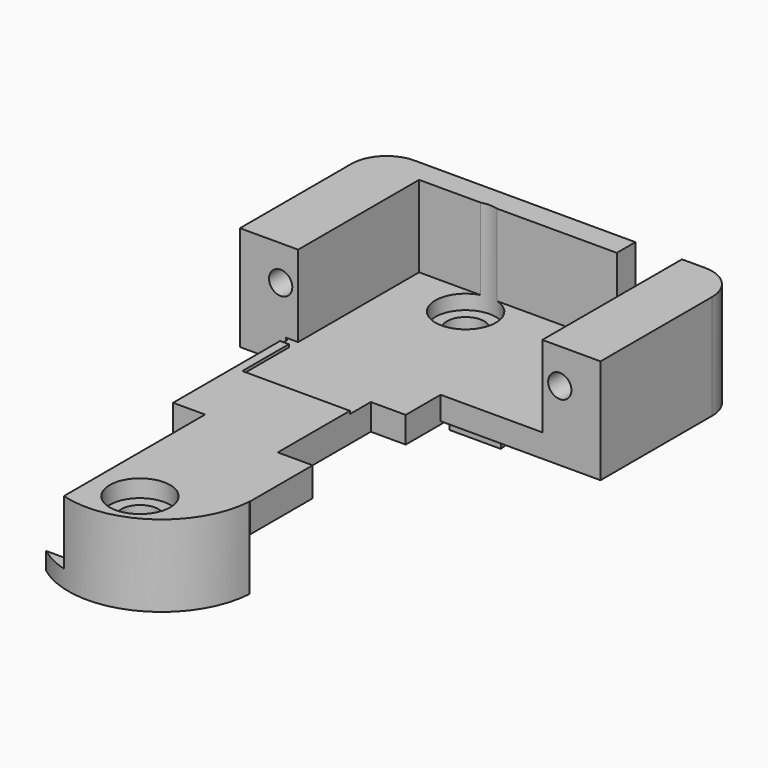
from build123d import *

# Parameters (mm, degrees)
CYLINDER298_R     = 1
CYLINDER298_DEPTH = 20
CYLINDER299_R     = 1
CYLINDER299_DEPTH = 20
BOX220_W          = 28
BOX220_H          = 1
BOX220_DEPTH      = 8
BOX197_W          = 21
BOX197_H          = 19
BOX197_DEPTH      = 8
BOX221_W          = 18
BOX221_H          = 27
BOX221_DEPTH      = 5.5
CYLINDER296_R     = 1.6
CYLINDER296_DEPTH = 10
CYLINDER297_R     = 1.6
CYLINDER297_DEPTH = 10
BOX224_W          = 69.8
BOX224_H          = 38.8
BOX224_DEPTH      = 4
CYLINDER300_R     = 2.6
CYLINDER300_DEPTH = 10
CYLINDER301_R     = 2.6
CYLINDER301_DEPTH = 10
BOX226_W          = 11
BOX226_H          = 17
BOX226_DEPTH      = 6
BOX227_W          = 4
BOX227_H          = 8
BOX227_DEPTH      = 11
BOX232_W          = 10
BOX232_H          = 10
BOX232_DEPTH      = 10
BOX222_W          = 10
BOX222_H          = 44
BOX222_DEPTH      = 3
CYLINDER295_R     = 8
CYLINDER295_DEPTH = 7
CYLINDER294_R     = 8
CYLINDER294_DEPTH = 7
BOX225_W          = 31
BOX225_H          = 15
BOX225_DEPTH      = 9
FILLET121_R       = 3
BOX223_W          = 13
BOX223_H          = 27
BOX223_DEPTH      = 2.5


with BuildPart() as zylinder300:
    # Cylinder298 → Cylinder298 (new body)
    with BuildSketch(Plane(origin=(22.5, 23, 30.5), x_dir=(1, 0, 0), z_dir=(0, -1, 0))):
        Circle(CYLINDER298_R)
    extrude(amount=CYLINDER298_DEPTH)


with BuildPart() as zylinder301:
    # Cylinder299 → Cylinder299 (new body)
    with BuildSketch(Plane(origin=(-1.5, 23, 30.5), x_dir=(1, 0, 0), z_dir=(0, -1, 0))):
        Circle(CYLINDER299_R)
    extrude(amount=CYLINDER299_DEPTH)


with BuildPart() as obj1:
    # Box220 → Box220 (new body)
    with BuildSketch(Plane(origin=(-3, 5, 26.5), x_dir=(1, 0, 0), z_dir=(0, 0, 1))):
        with Locations((14, 0.5)):
            Rectangle(BOX220_W, BOX220_H)
    extrude(amount=BOX220_DEPTH)


with BuildPart() as fusion207:
    # Box197 → Box197 (new body)
    with BuildSketch(Plane.XY.offset(26.5)):
        with Locations((10.5, 9.5)):
            Rectangle(BOX197_W, BOX197_H)
    extrude(amount=BOX197_DEPTH)

    # Fusion206: union obj1
    add(obj1.part)

    # Fusion207: union Zylinder300, Zylinder301
    add(zylinder300.part)
    add(zylinder301.part)


with BuildPart() as fusion207_1:
    # Fusion207 placement: moved
    add(fusion207.part.moved(Location((19.5, 1, -3.75))))


with BuildPart() as obj2:
    # Box221 → Box221 (new body)
    with BuildSketch(Plane(origin=(14.5, -13.5, 15), x_dir=(1, 0, 0), z_dir=(0, 0, 1))):
        with Locations((9, 13.5)):
            Rectangle(BOX221_W, BOX221_H)
    extrude(amount=BOX221_DEPTH)


with BuildPart() as zylinder298:
    # Cylinder296 → Cylinder296 (new body)
    with BuildSketch(Plane(origin=(25.5, -17.5, 12.25), x_dir=(1, 0, 0), z_dir=(0, 0, 1))):
        Circle(CYLINDER296_R)
    extrude(amount=CYLINDER296_DEPTH)


with BuildPart() as zylinder299:
    # Cylinder297 → Cylinder297 (new body)
    with BuildSketch(Plane(origin=(25.5, 17.5, 13), x_dir=(1, 0, 0), z_dir=(0, 0, 1))):
        Circle(CYLINDER297_R)
    extrude(amount=CYLINDER297_DEPTH)


with BuildPart() as board005:
    # Box224 → Box224 (new body)
    with BuildSketch(Plane(origin=(-42.5, -19.4, 16), x_dir=(1, 0, 0), z_dir=(0, 0, 1))):
        with Locations((34.9, 19.4)):
            Rectangle(BOX224_W, BOX224_H)
    extrude(amount=BOX224_DEPTH)


with BuildPart() as zylinder302:
    # Cylinder300 → Cylinder300 (new body)
    with BuildSketch(Plane(origin=(25.5, -17.5, 21.5), x_dir=(1, 0, 0), z_dir=(0, 0, 1))):
        Circle(CYLINDER300_R)
    extrude(amount=CYLINDER300_DEPTH)


with BuildPart() as zylinder303:
    # Cylinder301 → Cylinder301 (new body)
    with BuildSketch(Plane(origin=(25.5, 17.5, 21.5), x_dir=(1, 0, 0), z_dir=(0, 0, 1))):
        Circle(CYLINDER301_R)
    extrude(amount=CYLINDER301_DEPTH)


with BuildPart() as obj3:
    # Box226 → Box226 (new body)
    with BuildSketch(Plane(origin=(10.5, -22.5, 17.5), x_dir=(1, 0, 0), z_dir=(0, 0, 1))):
        with Locations((5.5, 8.5)):
            Rectangle(BOX226_W, BOX226_H)
    extrude(amount=BOX226_DEPTH)


with BuildPart() as obj4:
    # Box227 → Box227 (new body)
    with BuildSketch(Plane(origin=(36.5, 18.25, 23.5), x_dir=(1, 0, 0), z_dir=(0, 0, 1))):
        with Locations((2, 4)):
            Rectangle(BOX227_W, BOX227_H)
    extrude(amount=BOX227_DEPTH)


with BuildPart() as obj5:
    # Box232 → Box232 (new body)
    with BuildSketch(Plane(origin=(28.75, -6.75, 16.25), x_dir=(1, 0, 0), z_dir=(0, 0, 1))):
        with Locations((5, 5)):
            Rectangle(BOX232_W, BOX232_H)
    extrude(amount=BOX232_DEPTH)


with BuildPart() as fusion204:
    # Box222 → Box222 (new body)
    with BuildSketch(Plane(origin=(8.75, -22.5, 17.5), x_dir=(1, 0, 0), z_dir=(0, 0, 1))):
        with Locations((5, 22)):
            Rectangle(BOX222_W, BOX222_H)
    extrude(amount=BOX222_DEPTH)

    # Fusion204: union obj2, Zylinder298, Zylinder299, board005, Zylinder302, Zylinder303, obj3, obj4, obj5
    add(obj2.part)
    add(zylinder298.part)
    add(zylinder299.part)
    add(board005.part)
    add(zylinder302.part)
    add(zylinder303.part)
    add(obj3.part)
    add(obj4.part)
    add(obj5.part)


with BuildPart() as zylinder297:
    # Cylinder295 → Cylinder295 (new body)
    with BuildSketch(Plane(origin=(23.75, -13, 16), x_dir=(1, 0, 0), z_dir=(0, 0, 1))):
        Circle(CYLINDER295_R)
    extrude(amount=CYLINDER295_DEPTH)


with BuildPart() as zylinder296:
    # Cylinder294 → Cylinder294 (new body)
    with BuildSketch(Plane(origin=(23.75, 13, 16), x_dir=(1, 0, 0), z_dir=(0, 0, 1))):
        Circle(CYLINDER294_R)
    extrude(amount=CYLINDER294_DEPTH)


with BuildPart() as fillet121:
    # Box225 → Box225 (new body)
    with BuildSketch(Plane(origin=(14.5, 7, 20.75), x_dir=(1, 0, 0), z_dir=(0, 0, 1))):
        with Locations((15.5, 7.5)):
            Rectangle(BOX225_W, BOX225_H)
    extrude(amount=BOX225_DEPTH)

    # Fillet121
    fillet121_edges = [fillet121.edges().sort_by_distance(p)[0] for p in [
        (14.5, 22, 25.25),
        (45.5, 22, 25.25),
    ]]
    fillet(fillet121_edges, radius=FILLET121_R)


with BuildPart() as cut141:
    # Box223 → Box223 (new body)
    with BuildSketch(Plane(origin=(18.75, -13.5, 20.5), x_dir=(1, 0, 0), z_dir=(0, 0, 1))):
        with Locations((6.5, 13.5)):
            Rectangle(BOX223_W, BOX223_H)
    extrude(amount=BOX223_DEPTH)

    # Fusion205: union Zylinder297, Zylinder296, Fillet121
    add(zylinder297.part)
    add(zylinder296.part)
    add(fillet121.part)

    # Cut140: cut Fusion204
    add(fusion204.part, mode=Mode.SUBTRACT)

    # Cut141: cut Fusion207
    add(fusion207_1.part, mode=Mode.SUBTRACT)


with BuildPart() as cut141_1:
    # Cut141 placement: moved
    add(cut141.part.moved(Location((0, 0, 2))))


solid = cut141_1.part
